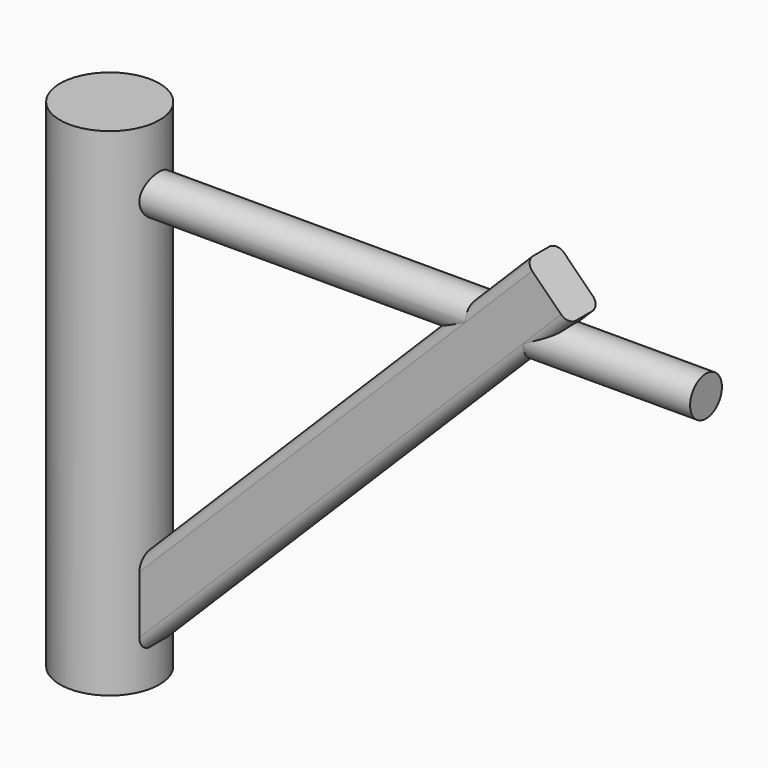
from build123d import *

# Parameters (mm, degrees)
F0_R     = 15
F1_DEPTH = 150
F2_R     = 6
F3_DEPTH = 180
F7_DEPTH = 200


with BuildPart() as f1:
    # F0 (on Top) → F1 (new body)
    with BuildSketch(Plane.XY):
        Circle(F0_R)
    extrude(amount=F1_DEPTH)

    # F2 (on Right) → F3 (join)
    with BuildSketch(Plane.YZ):
        with Locations((0, 130.317822)):
            Circle(F2_R)
    extrude(amount=F3_DEPTH)

    # F6 (on face) → F7 (join)
    with BuildSketch(Plane(origin=(0, 0, 0), x_dir=(0.707107, 0, -0.707107), z_dir=(-0.707107, 0, -0.707107))):
        with BuildLine():
            Line((-0.517934, 6), (-12.829055, 6))
            ThreePointArc((-12.829055, 6), (-14.950375, 5.12132), (-15.829055, 3))
            Line((-15.829055, 3), (-15.829055, -3))
            ThreePointArc((-15.829055, -3), (-14.950375, -5.12132), (-12.829055, -6))
            Line((-12.829055, -6), (-0.517934, -6))
            ThreePointArc((-0.517934, -6), (1.603386, -5.12132), (2.482066, -3))
            Line((2.482066, -3), (2.482066, 3))
            ThreePointArc((2.482066, 3), (1.603386, 5.12132), (-0.517934, 6))
        make_face()
    extrude(amount=-F7_DEPTH)


solid = f1.part
